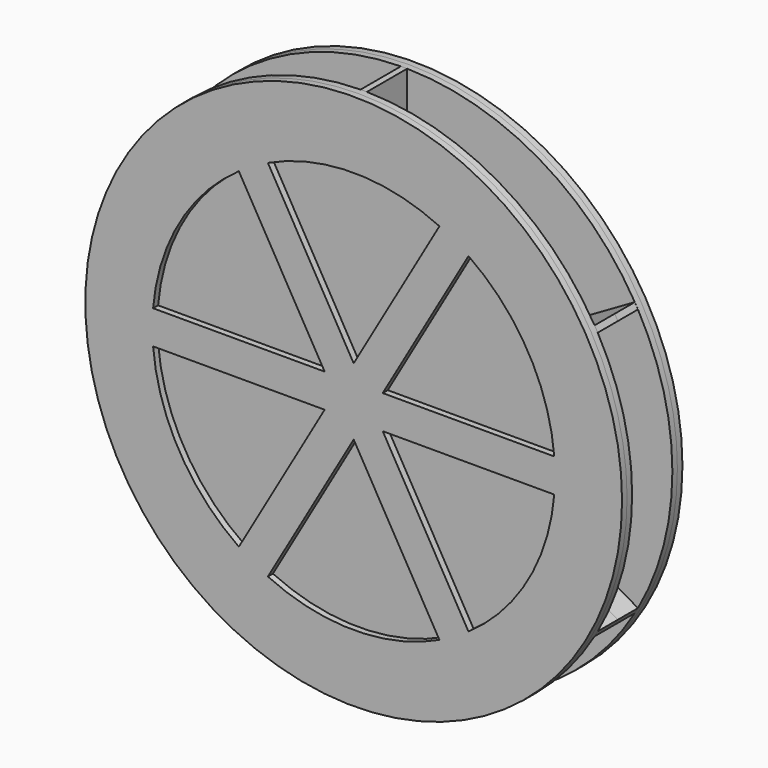
from build123d import *

# Parameters (mm, degrees)
F0_R           = 203.2
F1_DEPTH       = 4.7625
F2_R           = 203.2
F3_DEPTH       = 4.7625
F4_R           = 152.4
F5_DEPTH       = 19.05
F6_W           = 4.7625
F6_H           = 158.7546515355
F7_DEPTH       = 19.05
F10_DEPTH      = 19.05
F10_DEPTH_BACK = 19.05


with BuildPart() as f1:
    # F0 (on Front) → F1 (new body)
    with BuildSketch(Plane.XZ):
        Circle(F0_R)
        with BuildLine():
            ThreePointArc((-86.9334783468, -125.1732013753), (-131.9822715367, -76.2), (-151.8699114374, -12.7))
            Line((-151.8699114374, -12.7), (-21.9970452561, -12.7))
            Line((-21.9970452561, -12.7), (-86.9334783468, -125.1732013753))
        make_face(mode=Mode.SUBTRACT)
        with BuildLine():
            ThreePointArc((64.9364330906, -137.8732013753), (0, -152.4), (-64.9364330906, -137.8732013753))
            Line((-64.9364330906, -137.8732013753), (0, -25.4))
            Line((0, -25.4), (64.9364330906, -137.8732013753))
        make_face(mode=Mode.SUBTRACT)
        with BuildLine():
            Line((21.9970452561, -12.7), (151.8699114374, -12.7))
            ThreePointArc((151.8699114374, -12.7), (131.9822715367, -76.2), (86.9334783468, -125.1732013753))
            Line((86.9334783468, -125.1732013753), (21.9970452561, -12.7))
        make_face(mode=Mode.SUBTRACT)
        with BuildLine():
            ThreePointArc((-151.8699114374, 12.7), (-131.9822715367, 76.2), (-86.9334783468, 125.1732013753))
            Line((-86.9334783468, 125.1732013753), (-21.9970452561, 12.7))
            Line((-21.9970452561, 12.7), (-151.8699114374, 12.7))
        make_face(mode=Mode.SUBTRACT)
        with BuildLine():
            ThreePointArc((-64.9364330906, 137.8732013753), (0, 152.4), (64.9364330906, 137.8732013753))
            Line((64.9364330906, 137.8732013753), (0, 25.4))
            Line((0, 25.4), (-64.9364330906, 137.8732013753))
        make_face(mode=Mode.SUBTRACT)
        with BuildLine():
            ThreePointArc((86.9334783468, 125.1732013753), (131.9822715367, 76.2), (151.8699114374, 12.7))
            Line((151.8699114374, 12.7), (21.9970452561, 12.7))
            Line((21.9970452561, 12.7), (86.9334783468, 125.1732013753))
        make_face(mode=Mode.SUBTRACT)
    extrude(amount=F1_DEPTH)

    # F2 (on face) → F3 (join)
    with BuildSketch(Plane(origin=(0, 0, 0), x_dir=(-1, 0, 0), z_dir=(0, 1, 0))):
        Circle(F2_R)
    extrude(amount=F3_DEPTH)

    # F4 (on face) → F5 (join)
    with BuildSketch(Plane(origin=(0, 4.7625, 0), x_dir=(-1, 0, 0), z_dir=(0, 1, 0))):
        Circle(F4_R)
    extrude(amount=F5_DEPTH)

    # F6 (on face) → F7 (cut, through all)
    with BuildSketch(Plane(origin=(0, 23.8125, 0), x_dir=(-1, 0, 0), z_dir=(0, 1, 0))):
        with Locations((0, 123.8087211165)):
            Rectangle(F6_W, F6_H)
        Polygon((-37.2880920976, 24.2779206671), (-174.7736532963, 103.6552464349), (-177.1549032963, 99.5308004494), (-39.6693420976, 20.1534746816), align=None)
        Polygon((-39.6693420976, -20.1534746816), (-177.1549032963, -99.5308004494), (-174.7736532963, -103.6552464349), (-37.2880920976, -24.2779206671), align=None)
        with Locations((0, -123.8087211165)):
            Rectangle(F6_W, F6_H)
        Polygon((37.2880920976, -24.2779206671), (174.7736532963, -103.6552464349), (177.1549032963, -99.5308004494), (39.6693420976, -20.1534746816), align=None)
        Polygon((39.6693420976, 20.1534746816), (177.1549032963, 99.5308004494), (174.7736532963, 103.6552464349), (37.2880920976, 24.2779206671), align=None)
    extrude(amount=-F7_DEPTH, mode=Mode.SUBTRACT)

    # F9: F1 across plane


with BuildPart() as f1_1:
    add(f1.part)
    add(f1.part.mirror(Plane(origin=(0, 23.8125, 0), x_dir=(-1, 0, 0), z_dir=(0, 1, 0))))

    # F6 (on face) → F10 (join, two sides)
    with BuildSketch(Plane(origin=(0, 23.8125, 0), x_dir=(-1, 0, 0), z_dir=(0, 1, 0))) as f10_sk:
        with Locations((0, 123.8087211165)):
            Rectangle(F6_W, F6_H)
        Polygon((-37.2880920976, 24.2779206671), (-174.7736532963, 103.6552464349), (-177.1549032963, 99.5308004494), (-39.6693420976, 20.1534746816), align=None)
        Polygon((-39.6693420976, -20.1534746816), (-177.1549032963, -99.5308004494), (-174.7736532963, -103.6552464349), (-37.2880920976, -24.2779206671), align=None)
        with Locations((0, -123.8087211165)):
            Rectangle(F6_W, F6_H)
        Polygon((37.2880920976, -24.2779206671), (174.7736532963, -103.6552464349), (177.1549032963, -99.5308004494), (39.6693420976, -20.1534746816), align=None)
        Polygon((39.6693420976, 20.1534746816), (177.1549032963, 99.5308004494), (174.7736532963, 103.6552464349), (37.2880920976, 24.2779206671), align=None)
    extrude(amount=-F10_DEPTH)
    extrude(f10_sk.sketch, amount=F10_DEPTH_BACK)


solid = f1_1.part
